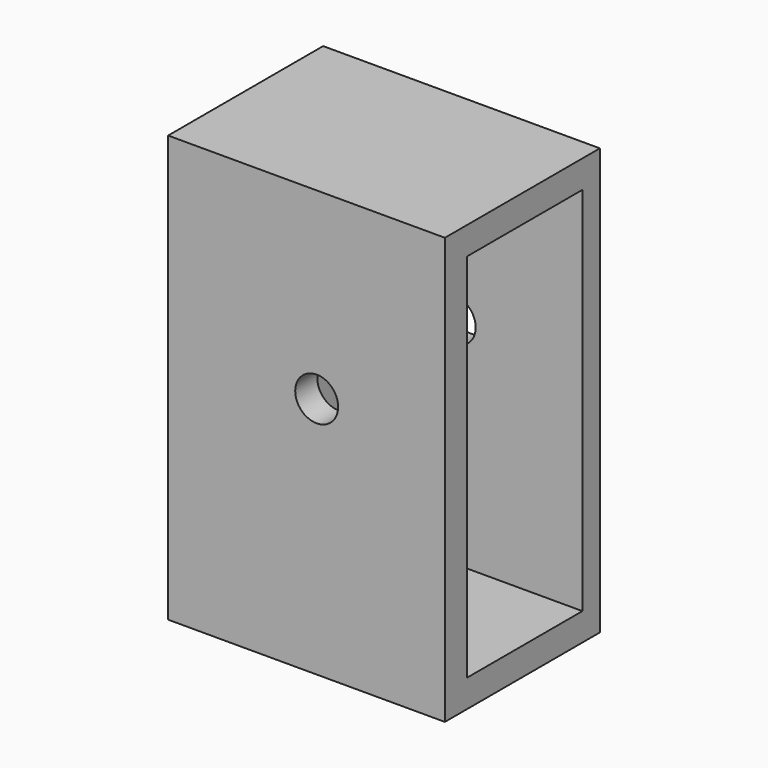
from build123d import *

# Parameters (mm, degrees)
SKETCH_W        = 7
SKETCH_H        = 15.401475
PAD_DEPTH       = 10
SKETCH001_W     = 5.211703
SKETCH001_H     = 13.401846
POCKET_DEPTH    = 7
SKETCH002_R     = 0.775886
POCKET001_DEPTH = 7.001
SKETCH003_R     = 0.475645
SKETCH003_R_2   = 1.257083
POCKET002_DEPTH = 10.001
POCKET003_DEPTH = 1


with BuildPart() as part:
    # Sketch → Pad (new body)
    with BuildSketch(Plane.YZ):
        with Locations((-0.5, -1.299263)):
            Rectangle(SKETCH_W, SKETCH_H)
    extrude(amount=PAD_DEPTH)

    # Sketch001 (on Face6 of Pad) → Pocket (cut)
    with BuildSketch(Plane.YZ.offset(10)):
        with Locations((-0.394149, -1.299077)):
            Rectangle(SKETCH001_W, SKETCH001_H)
    extrude(amount=-POCKET_DEPTH, mode=Mode.SUBTRACT)

    # Sketch002 (on Face2 of Pocket) → Pocket001 (cut, through all)
    with BuildSketch(Plane(origin=(0, -4, 0), x_dir=(0, 0, -1), z_dir=(0, -1, 0))):
        with Locations((0.232735, 5.367224)):
            Circle(SKETCH002_R)
    extrude(amount=-POCKET001_DEPTH, mode=Mode.SUBTRACT)

    # Sketch003 (on Face4 of Pocket001) → Pocket002 (cut, through all)
    with BuildSketch(Plane(origin=(0, 0, 0), x_dir=(0, 1, 0), z_dir=(-1, 0, 0))):
        with Locations((-0.756336, 6)):
            Circle(SKETCH003_R)
        with Locations((-1, -3.238254)):
            Circle(SKETCH003_R_2)
    extrude(amount=-POCKET002_DEPTH, mode=Mode.SUBTRACT)

    # Sketch004 (on Face4 of Pocket002) → Pocket003 (cut)
    with BuildSketch(Plane(origin=(0, 0, 0), x_dir=(0, 1, 0), z_dir=(-1, 0, 0))):
        Polygon((-2, 7), (0, 7), (1, 5.745577), (0, 4.55371), (-1.792042, 4.361475), (-3, 5.668684), align=None)
        Polygon((-2, -1), (0, -1), (1.399085, -2.289909), (0.245664, -3.520222), (-2, -3.520222), (-3, -2.289909), align=None)
    extrude(amount=-POCKET003_DEPTH, mode=Mode.SUBTRACT)


solid = part.part
